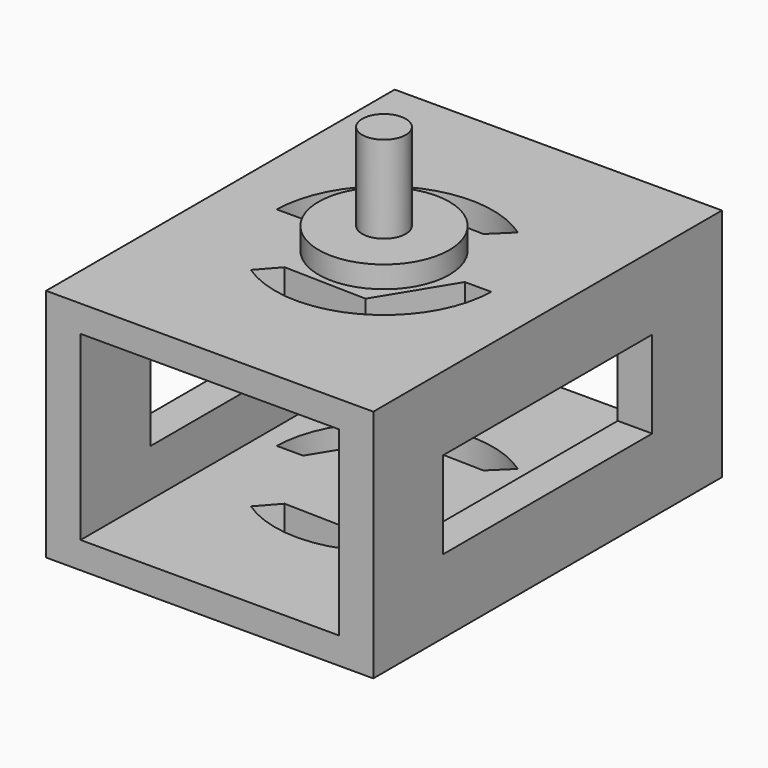
from build123d import *

# Parameters (mm, degrees)
F0_W      = 95.367364
F0_H      = 68.444572
F0_W_2    = 75.270072
F0_H_2    = 52.89761
F1_DEPTH  = 63.5
F3_DEPTH  = 68.445572
F4_R      = 19.05
F5_DEPTH  = 6.35
F6_R      = 19.05
F7_DEPTH  = 6.35
F8_W      = 76.2
F8_H      = 25.4
F9_DEPTH  = 95.368365
F10_R     = 6.35
F11_DEPTH = 25.4
F12_R     = 6.35
F13_DEPTH = 25.4


with BuildPart() as f1:
    # F0 (on Front) → F1 (new body, symmetric)
    with BuildSketch(Plane.XZ):
        Rectangle(F0_W, F0_H)
        Rectangle(F0_W_2, F0_H_2, mode=Mode.SUBTRACT)
    extrude(amount=F1_DEPTH, both=True)

    # F2 (on face) → F3 (cut, through all)
    with BuildSketch(Plane.XY.offset(34.222286)):
        with BuildLine():
            Line((12.549268, 20.517124), (18.195216, 26.019158))
            ThreePointArc((18.195216, 26.019158), (1.468591, 31.716017), (-15.712911, 27.589254))
            Line((-15.712911, 27.589254), (-11.493717, 21.126547))
            Line((-11.493717, 21.126547), (12.549268, 20.517124))
        make_face()
        with BuildLine():
            Line((-11.493717, 21.126547), (-15.712911, 27.589254))
            ThreePointArc((-15.712911, 27.589254), (-27.295073, 16.218554), (-31.744151, 0.609423))
            Line((-31.744151, 0.609423), (-24.042985, 0.609423))
            Line((-24.042985, 0.609423), (-11.493717, 21.126547))
        make_face()
        with BuildLine():
            ThreePointArc((-17.727481, -26.340063), (-1.43464, -31.717571), (15.277143, -27.832919))
            Line((15.277143, -27.832919), (11.493717, -21.126547))
            Line((11.493717, -21.126547), (-12.549268, -20.517124))
            Line((-12.549268, -20.517124), (-17.727481, -26.340063))
        make_face()
        with BuildLine():
            ThreePointArc((15.277143, -27.832919), (27.166712, -16.432659), (31.744151, -0.609423))
            Line((31.744151, -0.609423), (24.042985, -0.609423))
            Line((24.042985, -0.609423), (11.493717, -21.126547))
            Line((11.493717, -21.126547), (15.277143, -27.832919))
        make_face()
    extrude(amount=-F3_DEPTH, mode=Mode.SUBTRACT)

    # F4 (on face) → F5 (join)
    with BuildSketch(Plane.XY.offset(34.222286)):
        Circle(F4_R)
    extrude(amount=F5_DEPTH)

    # F6 (on face) → F7 (join)
    with BuildSketch(Plane(origin=(0, 0, -34.222286), x_dir=(1, 0, 0), z_dir=(0, 0, -1))):
        Circle(F6_R)
    extrude(amount=F7_DEPTH)

    # F8 (on face) → F9 (cut, through all)
    with BuildSketch(Plane.YZ.offset(47.683682)):
        Rectangle(F8_W, F8_H)
    extrude(amount=-F9_DEPTH, mode=Mode.SUBTRACT)

    # F10 (on face) → F11 (join)
    with BuildSketch(Plane.XY.offset(40.572286)):
        Circle(F10_R)
    extrude(amount=F11_DEPTH)

    # F12 (on face) → F13 (join)
    with BuildSketch(Plane(origin=(0, 0, -40.572286), x_dir=(1, 0, 0), z_dir=(0, 0, -1))):
        Circle(F12_R)
    extrude(amount=F13_DEPTH)


solid = f1.part
